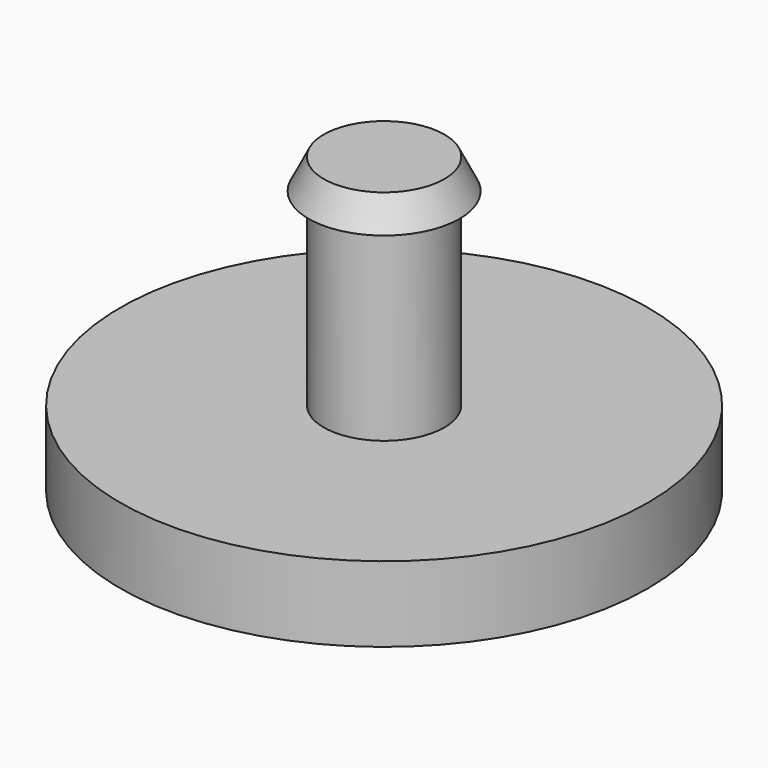
from build123d import *

# Parameters (mm, degrees)
F0_R     = 8.75
F1_DEPTH = 2.5
F2_R     = 2
F3_DEPTH = 6.25
F4_R     = 2.5
F6_R     = 2


with BuildPart() as f1:
    # F0 (on Top) → F1 (new body)
    with BuildSketch(Plane.XY):
        Circle(F0_R)
    extrude(amount=F1_DEPTH)

    # F2 (on face) → F3 (join)
    with BuildSketch(Plane.XY.offset(2.5)):
        Circle(F2_R)
    extrude(amount=F3_DEPTH)

    # F4 (on face) → F7 section 0
    with BuildSketch(Plane.XY.offset(8.75)):
        Circle(F4_R)
    # F6 (on offset) → F7 section 1
    with BuildSketch(Plane.XY.offset(9.75)):
        Circle(F6_R)
    loft()


solid = f1.part
